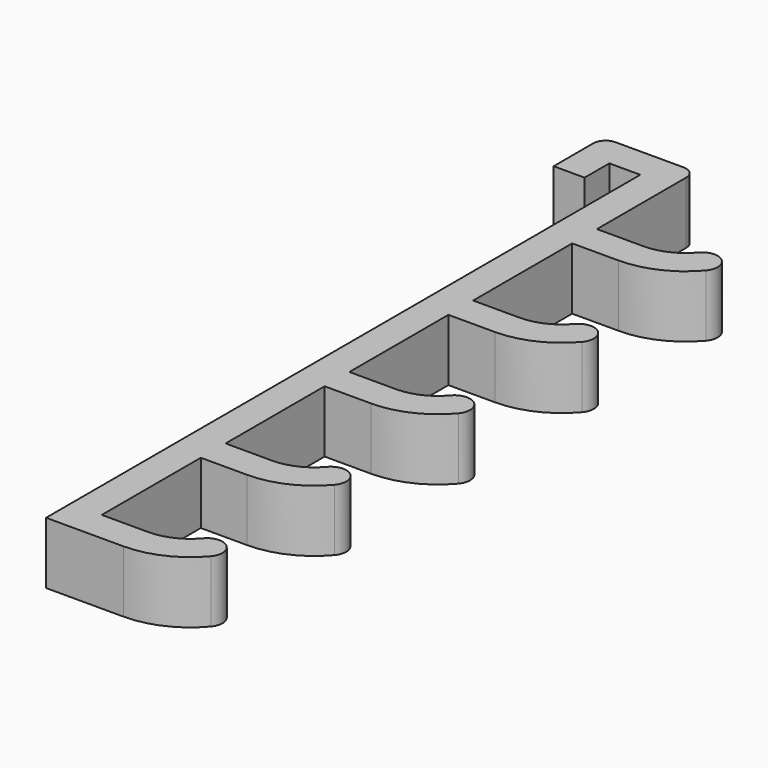
from build123d import *

# Parameters (mm, degrees)
PAD_DEPTH           = 10
PAD001_DEPTH        = 10
LINEARPATTERN_COUNT = 5
LINEARPATTERN_PITCH = 25
FILLET_R            = 2


with BuildPart() as part:
    # Sketch → Pad (new body)
    with BuildSketch(Plane.XY):
        Polygon((-5, 0), (-5, 120), (-10, 120), (-10, 115), (-15, 115), (-15, 125), (0, 125), (0, 0), align=None)
    extrude(amount=PAD_DEPTH)

    # Sketch001 → Pad001 (join)
    with BuildSketch(Plane.XY):
        with BuildLine():
            Line((0, 0), (0, 5))
            Line((0, 5), (7.5, 5))
            ThreePointArc((7.5, 5), (11.070714, 5.786376), (13.980741, 8))
            ThreePointArc((17.792941, 4.764706), (17.504488, 8.288453), (13.980741, 8))
            ThreePointArc((7.5, 0), (13.171134, 1.24895), (17.792941, 4.764706))
            Line((7.5, 0), (0, 0))
        make_face()
    pad001 = extrude(amount=PAD001_DEPTH)

    # LinearPattern: Pad001 ×5
    with Locations(*[(0, i * LINEARPATTERN_PITCH, 0) for i in range(1, LINEARPATTERN_COUNT)]):
        add(pad001)

    # Fillet
    fillet_edges = [part.edges().sort_by_distance(p)[0] for p in [
        (0, 125, 5),
        (-15, 125, 5),
    ]]
    fillet(fillet_edges, radius=FILLET_R)


solid = part.part
